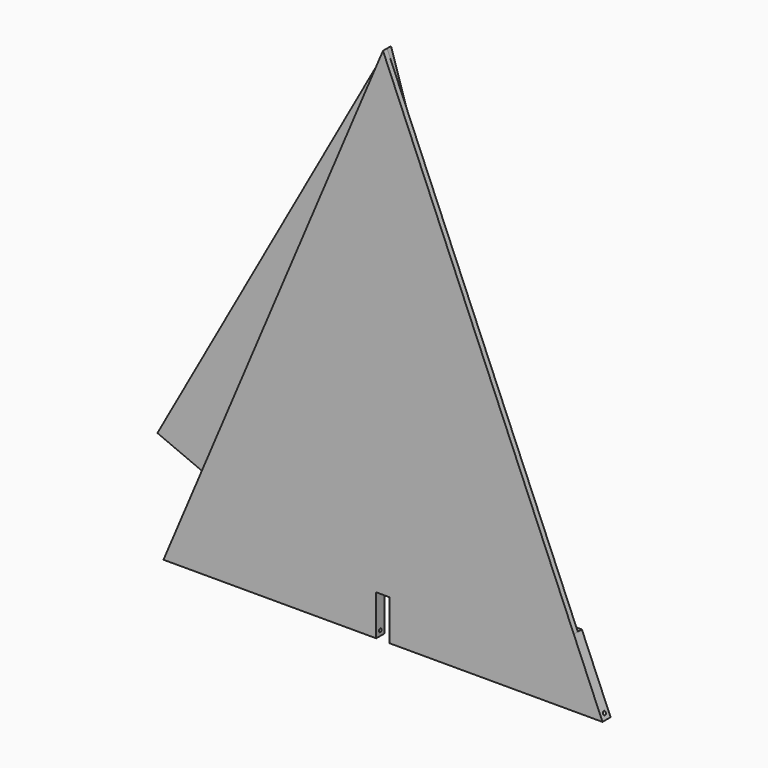
from build123d import *

# Parameters (mm, degrees)
F1_DEPTH      = 3
F3_DEPTH      = 70
F3_DEPTH_BACK = 70
F4_DEPTH      = 1.5
F6_DEPTH      = 1.5


with BuildPart() as f1:
    # F0 (on Front) → F1 (new body)
    with BuildSketch(Plane.XZ):
        Polygon((-54.177348, 139.05524), (-65, 113.442006), (-2, 113.442006), (-2, 125.442006), (2, 125.442006), (2, 113.442006), (65, 113.442006), (56.497385, 133.564567), (41.497385, 133.564567), (0, 267.273082), align=None)
        Polygon((-67.99451, 144.893563), (-54.177348, 139.05524), (0, 267.273082), align=None)
        Polygon((56.497385, 133.564567), (0, 267.273082), (41.497385, 133.564567), align=None)
    extrude(amount=F1_DEPTH)

    # F2 (on face) → F3 (cut, two sides)
    with BuildSketch(Plane.YZ.offset(-2)) as f3_sk:
        with BuildLine():
            ThreePointArc((-1.5, 114.442006), (-1.146447, 114.588452), (-1, 114.942006))
            ThreePointArc((-1, 114.942006), (-1.5, 115.442006), (-2, 114.942006))
            ThreePointArc((-2, 114.942006), (-1.853553, 114.588452), (-1.5, 114.442006))
        make_face()
    extrude(amount=F3_DEPTH, mode=Mode.SUBTRACT)
    extrude(f3_sk.sketch, amount=-F3_DEPTH_BACK, mode=Mode.SUBTRACT)

    # F0 (on Front) → F4 (cut)
    with BuildSketch(Plane.XZ):
        Polygon((56.497385, 133.564567), (0, 267.273082), (41.497385, 133.564567), align=None)
    extrude(amount=F4_DEPTH, mode=Mode.SUBTRACT)

    # F5 (on face) → F6 (cut)
    with BuildSketch(Plane.XZ.offset(3)):
        Polygon((-67.99451, 144.893563), (-54.177348, 139.05524), (0, 267.273082), align=None)
    extrude(amount=-F6_DEPTH, mode=Mode.SUBTRACT)


solid = f1.part
